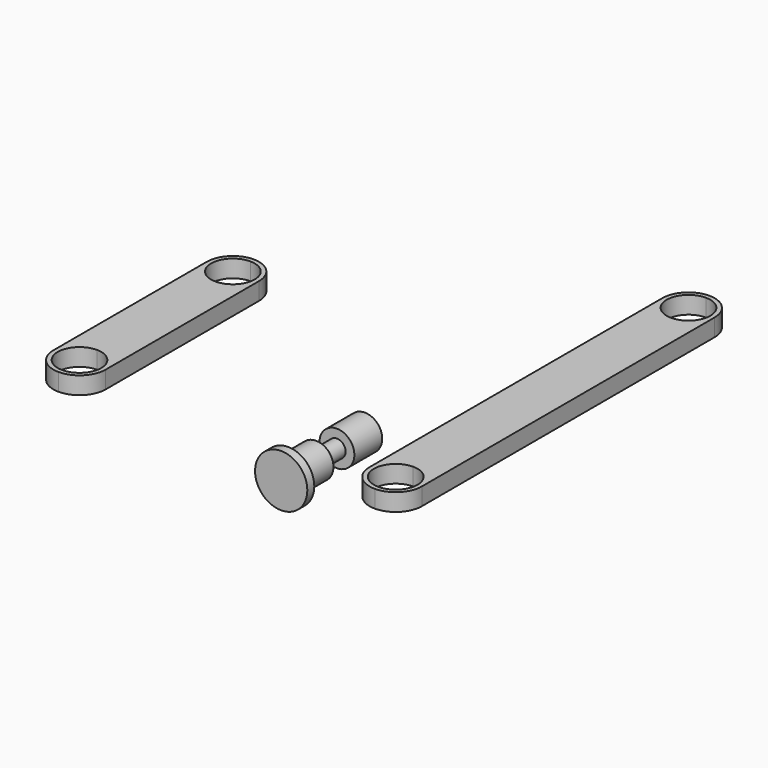
from build123d import *

# Parameters (mm, degrees)
F1_DEPTH = 2
F2_DEPTH = 2
F0_W     = 2
F0_H     = 4
F4_R     = 3
F4_R_2   = 2
F5_DEPTH = 1
F6_R     = 1
F7_DEPTH = 3
F8_R     = 2
F8_R_2   = 1
F9_DEPTH = 4


with BuildPart() as f1:
    # F0 (on Top) → F1 (new body)
    with BuildSketch(Plane.XY):
        with BuildLine():
            Line((-26.344706, 0.5), (-26.344706, 0))
            ThreePointArc((-26.344706, 0), (-24.223386, 0.87868), (-23.344706, 3))
            Line((-23.344706, 3), (-23.344706, 25))
            ThreePointArc((-23.344706, 25), (-24.223386, 27.12132), (-26.344706, 28))
            Line((-26.344706, 28), (-26.344706, 27.5))
            ThreePointArc((-26.344706, 27.5), (-24.576939, 26.767767), (-23.844706, 25))
            ThreePointArc((-23.844706, 25), (-24.576939, 23.232233), (-26.344706, 22.5))
            Line((-26.344706, 22.5), (-26.344706, 5.5))
            ThreePointArc((-26.344706, 5.5), (-24.576939, 4.767767), (-23.844706, 3))
            ThreePointArc((-23.844706, 3), (-24.576939, 1.232233), (-26.344706, 0.5))
        make_face()
        with BuildLine():
            Line((-29.344706, 25), (-29.344706, 3))
            ThreePointArc((-29.344706, 3), (-28.466026, 0.87868), (-26.344706, 0))
            Line((-26.344706, 0), (-26.344706, 0.5))
            ThreePointArc((-26.344706, 0.5), (-28.844706, 3), (-26.344706, 5.5))
            Line((-26.344706, 5.5), (-26.344706, 22.5))
            ThreePointArc((-26.344706, 22.5), (-28.844706, 25), (-26.344706, 27.5))
            Line((-26.344706, 27.5), (-26.344706, 28))
            ThreePointArc((-26.344706, 28), (-28.466026, 27.12132), (-29.344706, 25))
        make_face()
    extrude(amount=F1_DEPTH)


with BuildPart() as f2:
    # F0 (on Top) → F2 (new body)
    with BuildSketch(Plane.XY):
        with BuildLine():
            Line((9.945723, 0.5), (9.945723, 0))
            ThreePointArc((9.945723, 0), (12.067044, 0.87868), (12.945723, 3))
            Line((12.945723, 3), (12.945723, 45))
            ThreePointArc((12.945723, 45), (12.067044, 47.12132), (9.945723, 48))
            Line((9.945723, 48), (9.945723, 47.5))
            ThreePointArc((9.945723, 47.5), (11.71349, 46.767767), (12.445723, 45))
            ThreePointArc((12.445723, 45), (11.71349, 43.232233), (9.945723, 42.5))
            Line((9.945723, 42.5), (9.945723, 5.5))
            ThreePointArc((9.945723, 5.5), (11.71349, 4.767767), (12.445723, 3))
            ThreePointArc((12.445723, 3), (11.71349, 1.232233), (9.945723, 0.5))
        make_face()
        with BuildLine():
            ThreePointArc((6.945723, 3), (7.824403, 0.87868), (9.945723, 0))
            Line((9.945723, 0), (9.945723, 0.5))
            ThreePointArc((9.945723, 0.5), (7.445723, 3), (9.945723, 5.5))
            Line((9.945723, 5.5), (9.945723, 42.5))
            ThreePointArc((9.945723, 42.5), (7.445723, 45), (9.945723, 47.5))
            Line((9.945723, 47.5), (9.945723, 48))
            ThreePointArc((9.945723, 48), (7.824403, 47.12132), (6.945723, 45))
            Line((6.945723, 45), (6.945723, 3))
        make_face()
    extrude(amount=F2_DEPTH)


with BuildPart() as f3:
    # F0 (on Top) → F3 (revolve)
    with BuildSketch(Plane.XY):
        with Locations((-1, 2)):
            Rectangle(F0_W, F0_H)
    revolve(axis=Axis((0, 2, 0), (0, 1, 0)))

    # F4 (on face) → F5 (join)
    with BuildSketch(Plane.XZ):
        Circle(F4_R)
        Circle(F4_R_2, mode=Mode.SUBTRACT)
        Circle(F4_R_2)
    extrude(amount=F5_DEPTH)

    # F6 (on face) → F7 (join)
    with BuildSketch(Plane(origin=(0, 4, 0), x_dir=(-1, 0, 0), z_dir=(0, 1, 0))):
        Circle(F6_R)
    extrude(amount=F7_DEPTH)

    # F8 (on face) → F9 (join)
    with BuildSketch(Plane(origin=(0, 7, 0), x_dir=(-1, 0, 0), z_dir=(0, 1, 0))):
        Circle(F8_R)
        Circle(F8_R_2, mode=Mode.SUBTRACT)
        Circle(F8_R_2)
    extrude(amount=F9_DEPTH)


solid = Compound([f1.part, f2.part, f3.part])
